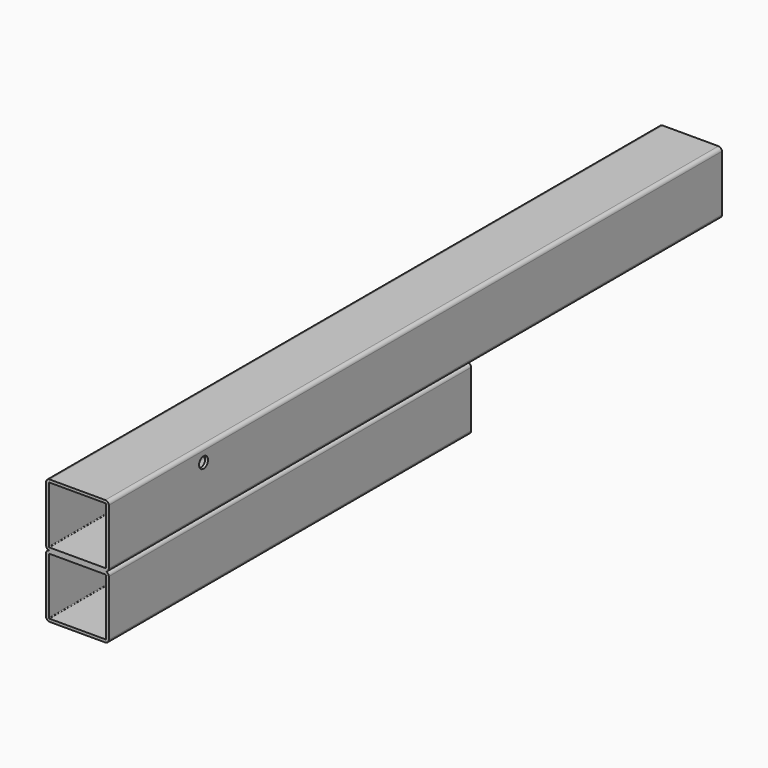
from build123d import *

# Parameters (mm, degrees)
F1_DEPTH = 1100
F2_R     = 8
F3_DEPTH = 90.001
F4_W     = 450
F4_H     = 80
F4_H_2   = 5
F5_DEPTH = 90.001
F6_R     = 6
F7_DEPTH = 4
F8_R     = 6
F9_DEPTH = 4


with BuildPart() as f1:
    # F0 (on Front) → F1 (new body)
    with BuildSketch(Plane.XZ):
        with BuildLine():
            ThreePointArc((45, 40), (43.5355339059, 43.5355339059), (40, 45))
            Line((40, 45), (-40, 45))
            ThreePointArc((-40, 45), (-43.5355339059, 43.5355339059), (-45, 40))
            Line((-45, 40), (-45, -40))
            ThreePointArc((-45, -40), (-43.5355339059, -43.5355339059), (-40, -45))
            Line((-40, -45), (40, -45))
            ThreePointArc((40, -45), (43.5355339059, -43.5355339059), (45, -40))
            Line((45, -40), (45, 40))
        make_face()
        with BuildLine():
            ThreePointArc((-41, 40), (-40.7071067812, 40.7071067812), (-40, 41))
            Line((-40, 41), (40, 41))
            ThreePointArc((40, 41), (40.7071067812, 40.7071067812), (41, 40))
            Line((41, 40), (41, -40))
            ThreePointArc((41, -40), (40.7071067812, -40.7071067812), (40, -41))
            Line((40, -41), (-40, -41))
            ThreePointArc((-40, -41), (-40.7071067812, -40.7071067812), (-41, -40))
            Line((-41, -40), (-41, 40))
        make_face(mode=Mode.SUBTRACT)
        with BuildLine():
            ThreePointArc((45, -50), (43.5355339059, -46.4644660941), (40, -45))
            Line((40, -45), (-40, -45))
            ThreePointArc((-40, -45), (-43.5355339059, -46.4644660941), (-45, -50))
            Line((-45, -50), (-45, -130))
            ThreePointArc((-45, -130), (-43.5355339059, -133.5355339059), (-40, -135))
            Line((-40, -135), (40, -135))
            ThreePointArc((40, -135), (43.5355339059, -133.5355339059), (45, -130))
            Line((45, -130), (45, -50))
        make_face()
        with BuildLine():
            ThreePointArc((-41, -50), (-40.7071067812, -49.2928932188), (-40, -49))
            Line((-40, -49), (40, -49))
            ThreePointArc((40, -49), (40.7071067812, -49.2928932188), (41, -50))
            Line((41, -50), (41, -130))
            ThreePointArc((41, -130), (40.7071067812, -130.7071067812), (40, -131))
            Line((40, -131), (-40, -131))
            ThreePointArc((-40, -131), (-40.7071067812, -130.7071067812), (-41, -130))
            Line((-41, -130), (-41, -50))
        make_face(mode=Mode.SUBTRACT)
    extrude(amount=-F1_DEPTH)

    # F2 (on face) → F3 (cut, through all)
    with BuildSketch(Plane.YZ.offset(45)):
        with Locations((170, 25)):
            Circle(F2_R)
    extrude(amount=-F3_DEPTH, mode=Mode.SUBTRACT)

    # F4 (on face) → F5 (cut, through all)
    with BuildSketch(Plane.YZ.offset(45)):
        with Locations((875, -90)):
            Rectangle(F4_W, F4_H)
        with Locations((875, -47.5)):
            Rectangle(F4_W, F4_H_2)
        with Locations((875, -132.5)):
            Rectangle(F4_W, F4_H_2)
    extrude(amount=-F5_DEPTH, mode=Mode.SUBTRACT)

    # F6 (on face) → F7 (cut, through all)
    with BuildSketch(Plane(origin=(0, 0, -135), x_dir=(1, 0, 0), z_dir=(0, 0, -1))):
        with Locations((20, -170)):
            Circle(F6_R)
    extrude(amount=-F7_DEPTH, mode=Mode.SUBTRACT)

    # F8 (on face) → F9 (cut, through all)
    with BuildSketch(Plane(origin=(0, 0, -45), x_dir=(1, 0, 0), z_dir=(0, 0, -1))):
        with Locations((20, -1080)):
            Circle(F8_R)
    extrude(amount=-F9_DEPTH, mode=Mode.SUBTRACT)


solid = f1.part
